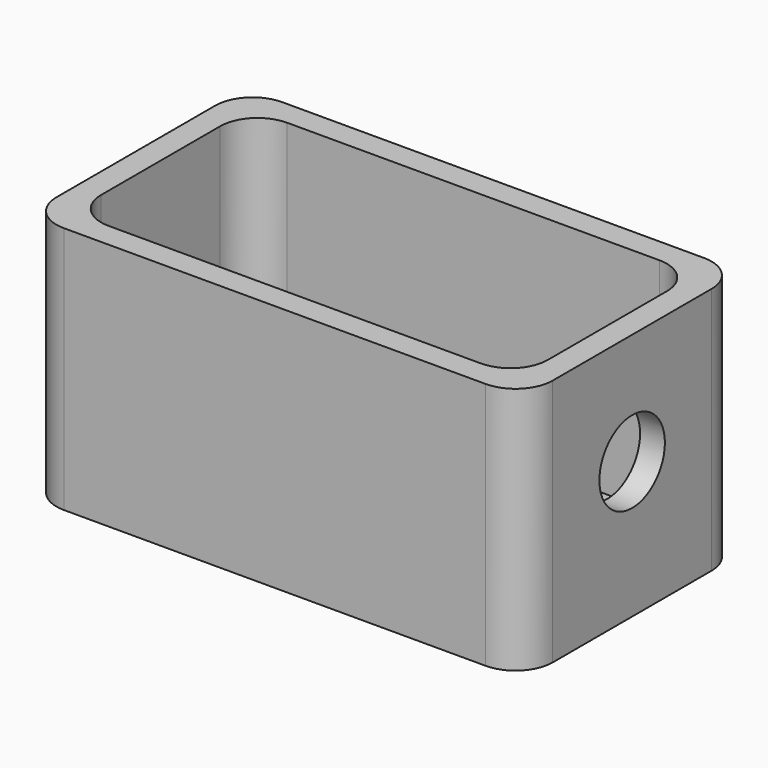
from build123d import *

# Parameters (mm, degrees)
F0_W     = 50.8
F0_H     = 27.94
F1_DEPTH = 25.4
F2_W     = 45.72
F2_H     = 22.86
F3_DEPTH = 22.86
F4_R     = 3.81
F5_R     = 4.191
F6_DEPTH = 2.54
F7_R     = 1.27
F8_DEPTH = 2.54


with BuildPart() as f1:
    # F0 (on Top) → F1 (new body)
    with BuildSketch(Plane.XY):
        Rectangle(F0_W, F0_H)
    extrude(amount=F1_DEPTH)

    # F2 (on face) → F3 (cut)
    with BuildSketch(Plane.XY.offset(25.4)):
        Rectangle(F2_W, F2_H)
    extrude(amount=-F3_DEPTH, mode=Mode.SUBTRACT)

    # F4
    f4_edges = [f1.edges().sort_by_distance(p)[0] for p in [
        (-25.4, -13.97, 12.7),
        (25.4, -13.97, 12.7),
        (25.4, 13.97, 12.7),
        (-25.4, 13.97, 12.7),
        (-22.86, -11.43, 13.97),
        (-22.86, 11.43, 13.97),
        (22.86, 11.43, 13.97),
        (22.86, -11.43, 13.97),
    ]]
    fillet(f4_edges, radius=F4_R)

    # F5 (on face) → F6 (cut, through all)
    with BuildSketch(Plane.YZ.offset(25.4)):
        with Locations((0, 13.97)):
            Circle(F5_R)
    extrude(amount=-F6_DEPTH, mode=Mode.SUBTRACT)

    # F7 (on face) → F8 (cut, through all)
    with BuildSketch(Plane(origin=(-25.4, 0, 0), x_dir=(0, -1, 0), z_dir=(-1, 0, 0))):
        with Locations((0, 13.97)):
            Circle(F7_R)
    extrude(amount=-F8_DEPTH, mode=Mode.SUBTRACT)


solid = f1.part
